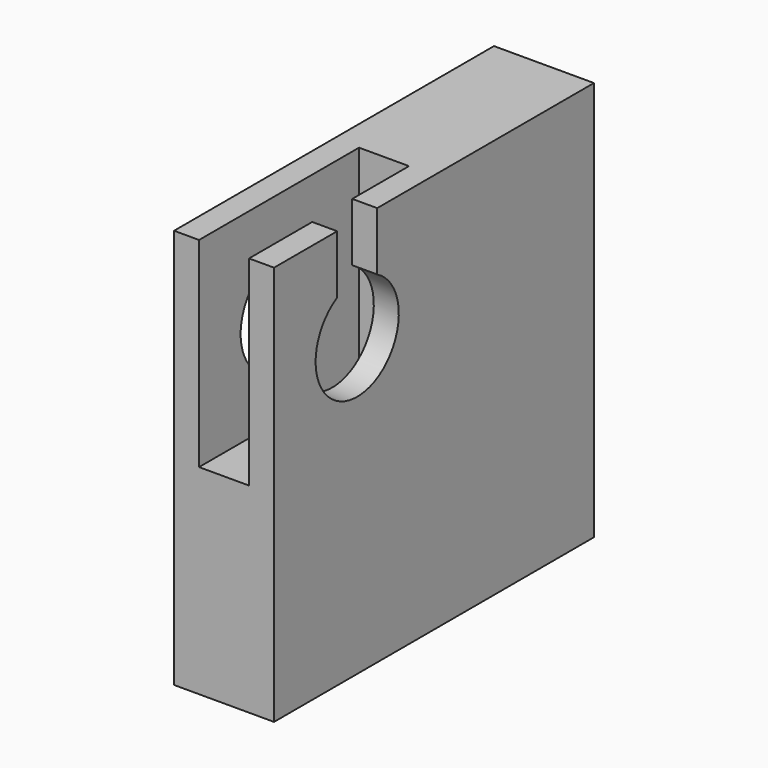
from build123d import *

# Parameters (mm, degrees)
F0_W     = 25.4
F0_H     = 25.4
F1_DEPTH = 6.35
F2_R     = 3.302
F3_DEPTH = 25.4
F4_W     = 3.175
F4_H     = 12.7
F5_DEPTH = 12.7
F6_W     = 4.7625
F6_H     = 3.175
F7_DEPTH = 6.604


with BuildPart() as f1:
    # F0 (on Right) → F1 (new body)
    with BuildSketch(Plane.YZ):
        with Locations((5.450736, 3.029342)):
            Rectangle(F0_W, F0_H)
    extrude(amount=F1_DEPTH)

    # F2 (on face) → F3 (cut)
    with BuildSketch(Plane.YZ.offset(6.35)):
        with Locations((-0.645264, 9.125342)):
            Circle(F2_R)
    extrude(amount=-F3_DEPTH, mode=Mode.SUBTRACT)

    # F4 (on face) → F5 (cut)
    with BuildSketch(Plane.XY.offset(15.729342)):
        with Locations((3.175, -0.899264)):
            Rectangle(F4_W, F4_H)
    extrude(amount=-F5_DEPTH, mode=Mode.SUBTRACT)

    # F6 (on face) → F7 (cut)
    with BuildSketch(Plane.XY.offset(15.729342)):
        with Locations((3.96875, -0.645264)):
            Rectangle(F6_W, F6_H)
    extrude(amount=-F7_DEPTH, mode=Mode.SUBTRACT)


solid = f1.part
